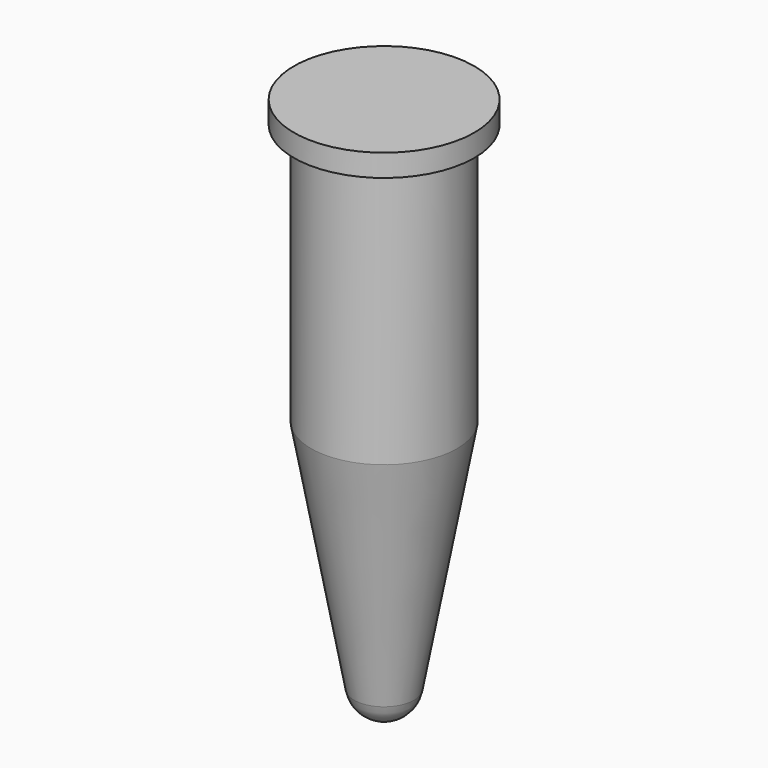
from build123d import *


with BuildPart() as f1:
    # F0 (on Front) → F1 (revolve)
    with BuildSketch(Plane.XZ):
        with BuildLine():
            Line((0, 39.1), (0, 0))
            ThreePointArc((0, 0), (1.405331, 0.509042), (2.158662, 1.8))
            Line((2.158662, 1.8), (5.25, 18.72))
            Line((5.25, 18.72), (5.25, 37.5))
            Line((5.25, 37.5), (6.48, 37.5))
            Line((6.48, 37.5), (6.48, 39.1))
            Line((6.48, 39.1), (0, 39.1))
        make_face()
    revolve(axis=Axis((0, 0, 19.55), (0, 0, 1)))


solid = f1.part
